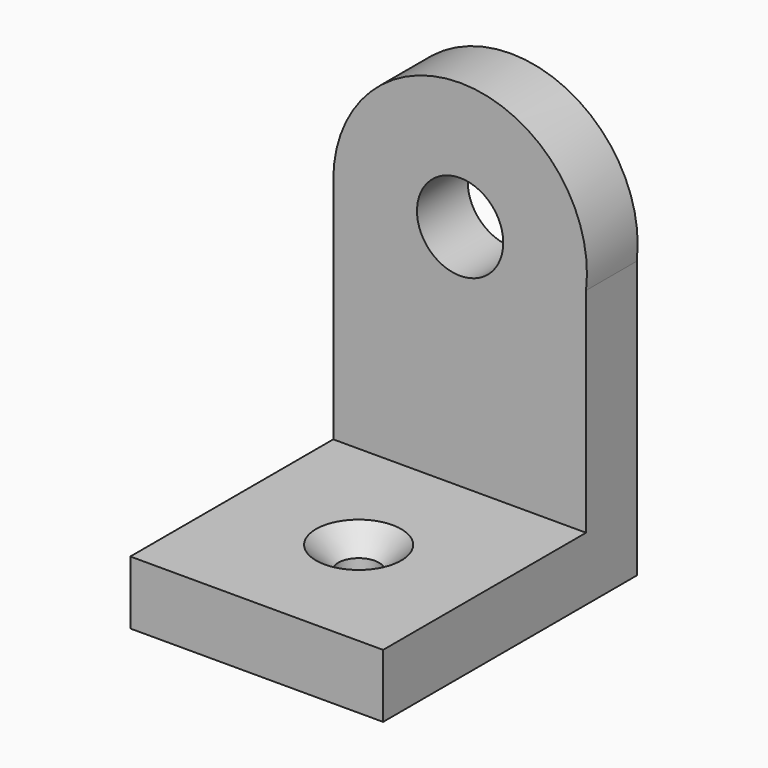
from build123d import *

# Parameters (mm, degrees)
F1_DEPTH       = 5
F2_W           = 19.9294948324
F2_H           = 5
F3_DEPTH       = 20
F5_D           = 6.8
F7_D           = 3.2
F7_CSINK_D     = 6.72
F7_CSINK_ANGLE = 90


with BuildPart() as f1:
    # F0 (on Front) → F1 (new body)
    with BuildSketch(Plane.XZ):
        with BuildLine():
            Line((9.9294948324, -23), (9.9294948324, -1.1853827958))
            ThreePointArc((9.9294948324, -1.1853827958), (0.5937388633, 9.9823581464), (-10, 0))
            Line((-10, 0), (-10, -23))
            Line((-10, -23), (9.9294948324, -23))
        make_face()
    extrude(amount=F1_DEPTH)

    # F2 (on face) → F3 (join)
    with BuildSketch(Plane.XZ.offset(5)):
        with Locations((-0.0352525838, -20.5)):
            Rectangle(F2_W, F2_H)
    extrude(amount=F3_DEPTH)

    # F5 (through all)
    with Locations(Plane(origin=(0, 0, 0), x_dir=(-1, 0, 0), z_dir=(0, 1, 0))):
        with Locations((0, 0)):
            Hole(F5_D / 2)

    # F7 (through all)
    with Locations(Plane.XY.offset(-18)):
        with Locations((0, -15)):
            CounterSinkHole(F7_D / 2, F7_CSINK_D / 2, counter_sink_angle=F7_CSINK_ANGLE)


solid = f1.part
